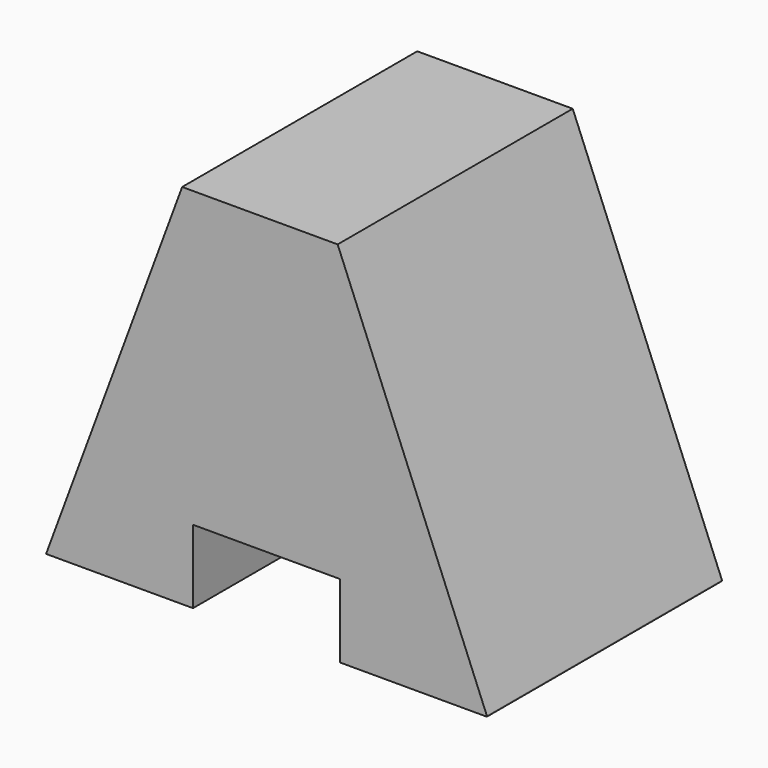
from build123d import *

# Parameters (mm, degrees)
F0_W     = 38.1
F0_H     = 31.75
F1_DEPTH = 25.4
F2_W     = 12.7
F2_H     = 6.35
F3_DEPTH = 25.401
F5_DEPTH = 25.401


with BuildPart() as f1:
    # F0 (on Front) → F1 (new body)
    with BuildSketch(Plane.XZ):
        with Locations((19.05, 15.875)):
            Rectangle(F0_W, F0_H)
    extrude(amount=F1_DEPTH)

    # F2 (on Front) → F3 (cut, through all)
    with BuildSketch(Plane.XZ):
        with Locations((19.05, 3.175)):
            Rectangle(F2_W, F2_H)
    extrude(amount=F3_DEPTH, mode=Mode.SUBTRACT)

    # F4 (on Front) → F5 (cut, through all)
    with BuildSketch(Plane.XZ):
        Polygon((0, 0), (11.814203, 31.888738), (0, 31.888738), align=None)
        Polygon((38.132019, 32.08084), (25.069162, 32.08084), (38.132019, 0), align=None)
    extrude(amount=F5_DEPTH, mode=Mode.SUBTRACT)


solid = f1.part
